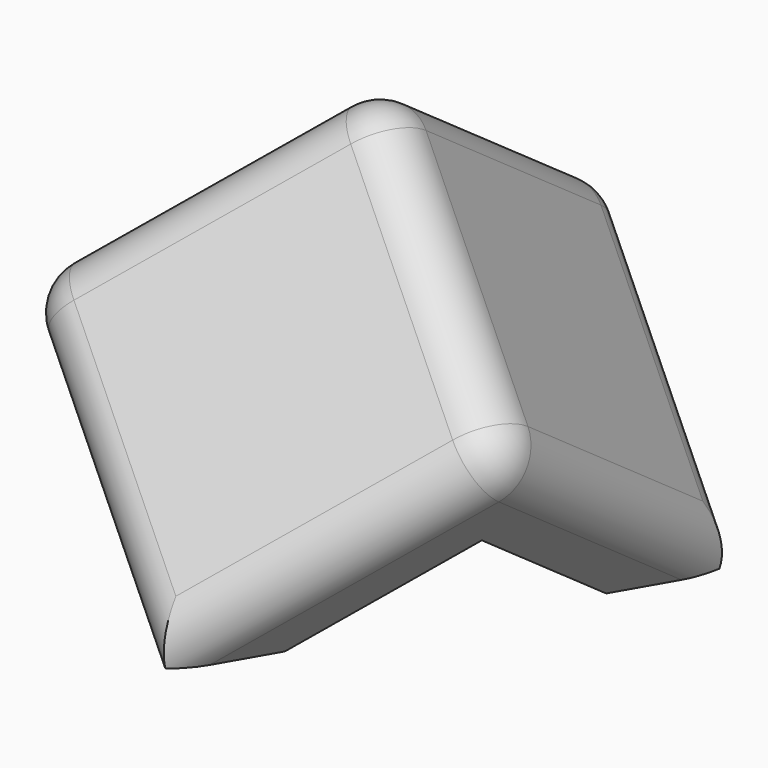
from build123d import *

# Parameters (mm, degrees)
F0_W      = 40
F0_H      = 40
F1_DEPTH  = 10
F3_DEPTH  = 30
F4_R      = 5
F6_R      = 32.5
F7_DEPTH  = 5
F9_ANGLE  = -225
F10_ANGLE = -35.264


with BuildPart() as f1:
    # F0 (on Top) → F1 (new body)
    with BuildSketch(Plane.XY):
        with Locations((20, 20)):
            Rectangle(F0_W, F0_H)
    extrude(amount=F1_DEPTH)

    # F2 (on face) → F3 (join)
    with BuildSketch(Plane.XY.offset(10)):
        Polygon((0, 40), (0, 0), (40, 0), (40, 10), (10, 10), (10, 40), align=None)
    extrude(amount=F3_DEPTH)

    # F4
    f4_edges = [f1.edges().sort_by_distance(p)[0] for p in [
        (20, 0, 40),
        (0, 20, 40),
        (0, 0, 20),
        (20, 0, 0),
        (0, 20, 0),
        (20, 40, 0),
        (40, 20, 0),
        (40, 0, 20),
        (0, 40, 20),
    ]]
    fillet(f4_edges, radius=F4_R)

    # F6 (on 3pt) → F7 (cut)
    with BuildSketch(Plane(origin=(30, 30, 30), x_dir=(-0.8164965809, 0.4082482905, 0.4082482905), z_dir=(0.5773502692, 0.5773502692, 0.5773502692))):
        Circle(F6_R)
    extrude(amount=-F7_DEPTH, mode=Mode.SUBTRACT)


with BuildPart() as f1_1:
    # F9: moved
    add(f1.part.rotate(Axis((0, 27.5, 0), (0, 1, 0)), F9_ANGLE))


with BuildPart() as f1_2:
    # F10: moved
    add(f1_1.part.rotate(Axis((27.5, 0, 0), (1, 0, 0)), F10_ANGLE))


with BuildPart() as f1_3:
    # F13: moved
    add(f1_2.part.moved(Location((0, 0, 46.961))))


solid = f1_3.part
